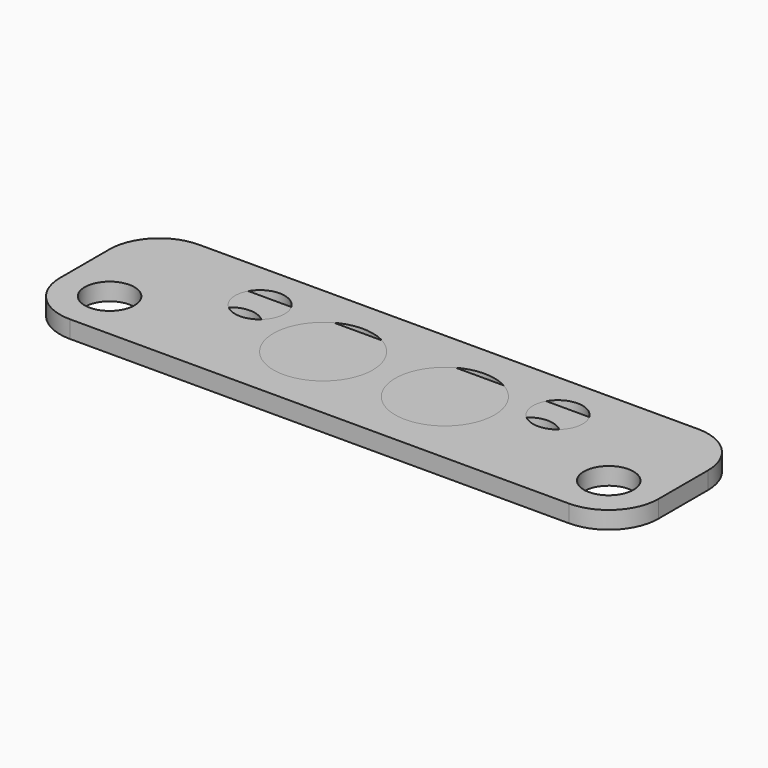
from build123d import *

# Parameters (mm, degrees)
F0_R     = 6.35
F1_DEPTH = 4.445
F2_R     = 6.35
F2_R_2   = 12.7
F3_DEPTH = 4.445


with BuildPart() as f1:
    # F0 (on Top) → F1 (new body)
    with BuildSketch(Plane.XY):
        with BuildLine():
            Line((127.6604, 19.05), (0, 19.05))
            ThreePointArc((0, 19.05), (-8.980256, 15.330256), (-12.7, 6.35))
            Line((-12.7, 6.35), (-12.7, 0))
            ThreePointArc((-12.7, 0), (-8.980256, -8.980256), (0, -12.7))
            Line((0, -12.7), (127.6604, -12.7))
            ThreePointArc((127.6604, -12.7), (136.640656, -8.980256), (140.3604, 0))
            Line((140.3604, 0), (140.3604, 6.35))
            ThreePointArc((140.3604, 6.35), (136.640656, 15.330256), (127.6604, 19.05))
        make_face()
        Circle(F0_R, mode=Mode.SUBTRACT)
        with Locations((127.6604, 0)):
            Circle(F0_R, mode=Mode.SUBTRACT)
        with Locations((25.7302, 6.35)):
            Circle(F0_R, mode=Mode.SUBTRACT)
        with Locations((101.9302, 6.35)):
            Circle(F0_R, mode=Mode.SUBTRACT)
    extrude(amount=F1_DEPTH)


with BuildPart() as f3:
    # F2 (on Top) → F3 (new body)
    with BuildSketch(Plane.XY):
        with BuildLine():
            Line((127.6604, 28.575), (0, 28.575))
            ThreePointArc((0, 28.575), (-8.980256, 24.855256), (-12.7, 15.875))
            Line((-12.7, 15.875), (-12.7, 0))
            ThreePointArc((-12.7, 0), (-8.980256, -8.980256), (0, -12.7))
            Line((0, -12.7), (127.6604, -12.7))
            ThreePointArc((127.6604, -12.7), (136.640656, -8.980256), (140.3604, 0))
            Line((140.3604, 0), (140.3604, 15.875))
            ThreePointArc((140.3604, 15.875), (136.640656, 24.855256), (127.6604, 28.575))
        make_face()
        Circle(F2_R, mode=Mode.SUBTRACT)
        with Locations((127.6604, 0)):
            Circle(F2_R, mode=Mode.SUBTRACT)
        with Locations((48.26, 7.9375)):
            Circle(F2_R_2, mode=Mode.SUBTRACT)
        with Locations((25.7302, 15.875)):
            Circle(F2_R, mode=Mode.SUBTRACT)
        with Locations((79.4004, 7.9375)):
            Circle(F2_R_2, mode=Mode.SUBTRACT)
        with Locations((101.9302, 15.875)):
            Circle(F2_R, mode=Mode.SUBTRACT)
    extrude(amount=F3_DEPTH)


solid = Compound([f1.part, f3.part])
